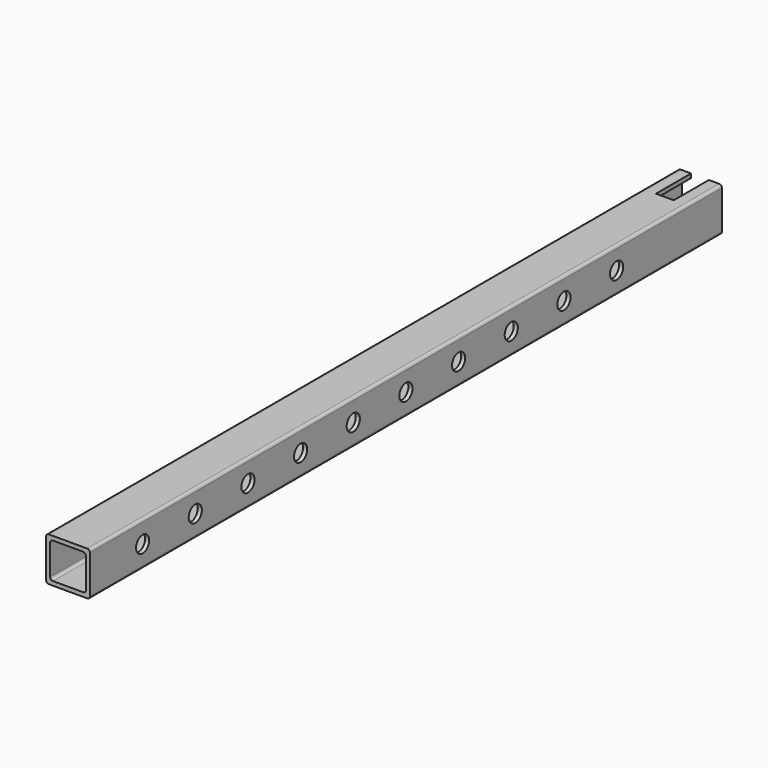
from build123d import *

# Parameters (mm, degrees)
F1_DEPTH = 914.4
F2_R     = 19.05
F3_DEPTH = 127
F4_W     = 41.148
F4_H     = 203.2
F5_DEPTH = 127


with BuildPart() as f1:
    # F0 (on Front) → F1 (new body, symmetric)
    with BuildSketch(Plane.XZ):
        with BuildLine():
            ThreePointArc((50.8, 44.45), (48.940128, 48.940128), (44.45, 50.8))
            Line((44.45, 50.8), (-44.45, 50.8))
            ThreePointArc((-44.45, 50.8), (-48.940128, 48.940128), (-50.8, 44.45))
            Line((-50.8, 44.45), (-50.8, -44.45))
            ThreePointArc((-50.8, -44.45), (-48.940128, -48.940128), (-44.45, -50.8))
            Line((-44.45, -50.8), (44.45, -50.8))
            ThreePointArc((44.45, -50.8), (48.940128, -48.940128), (50.8, -44.45))
            Line((50.8, -44.45), (50.8, 44.45))
        make_face()
        with BuildLine():
            Line((-34.925, 41.275), (34.925, 41.275))
            ThreePointArc((34.925, 41.275), (39.415128, 39.415128), (41.275, 34.925))
            Line((41.275, 34.925), (41.275, -34.925))
            ThreePointArc((41.275, -34.925), (39.415128, -39.415128), (34.925, -41.275))
            Line((34.925, -41.275), (-34.925, -41.275))
            ThreePointArc((-34.925, -41.275), (-39.415128, -39.415128), (-41.275, -34.925))
            Line((-41.275, -34.925), (-41.275, 34.925))
            ThreePointArc((-41.275, 34.925), (-39.415128, 39.415128), (-34.925, 41.275))
        make_face(mode=Mode.SUBTRACT)
    extrude(amount=F1_DEPTH, both=True)

    # F2 (on face) → F3 (cut)
    with BuildSketch(Plane.YZ.offset(50.8)):
        with Locations((304.8, 0)):
            Circle(F2_R)
        with Locations((-762, 0)):
            Circle(F2_R)
        with Locations((-609.6, 0)):
            Circle(F2_R)
        with Locations((-457.2, 0)):
            Circle(F2_R)
        with Locations((-304.8, 0)):
            Circle(F2_R)
        with Locations((-152.4, 0)):
            Circle(F2_R)
        Circle(F2_R)
        with Locations((152.4, 0)):
            Circle(F2_R)
        with Locations((457.2, 0)):
            Circle(F2_R)
        with Locations((609.6, 0)):
            Circle(F2_R)
    extrude(amount=-F3_DEPTH, mode=Mode.SUBTRACT)

    # F4 (on face) → F5 (cut)
    with BuildSketch(Plane.XY.offset(50.8)):
        with Locations((0, 914.4)):
            Rectangle(F4_W, F4_H)
    extrude(amount=-F5_DEPTH, mode=Mode.SUBTRACT)


solid = f1.part
